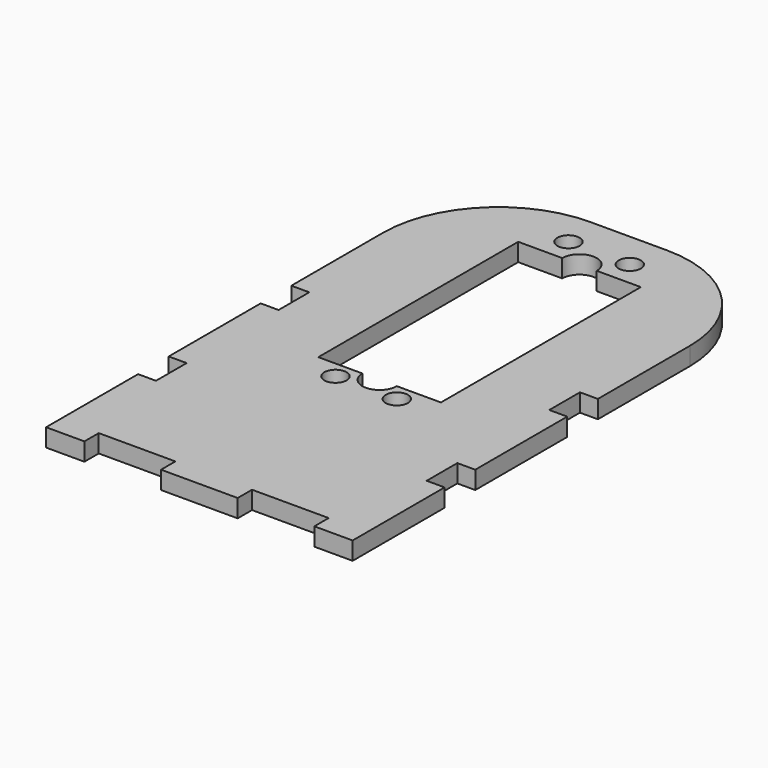
from build123d import *

# Parameters (mm, degrees)
F0_W      = 50.8
F0_H      = 88.9
F1_DEPTH  = 2.9718
F2_W      = 20.32
F2_H      = 41.402
F3_DEPTH  = 25.4
F4_W      = 12.7
F4_H      = 2.9718
F5_DEPTH  = 25.4
F6_W      = 2.9718
F6_H      = 6.35
F7_DEPTH  = 25.4
F8_R      = 1.8415
F9_DEPTH  = 25.4
F11_DEPTH = 25.4
F12_R     = 19.05


with BuildPart() as f1:
    # F0 (on Top) → F1 (new body)
    with BuildSketch(Plane.XY):
        Rectangle(F0_W, F0_H)
    extrude(amount=F1_DEPTH)

    # F2 (on face) → F3 (cut)
    with BuildSketch(Plane.XY.offset(2.9718)):
        with Locations((0, 13.589)):
            Rectangle(F2_W, F2_H)
    extrude(amount=-F3_DEPTH, mode=Mode.SUBTRACT)

    # F4 (on face) → F5 (cut)
    with BuildSketch(Plane.XY.offset(2.9718)):
        with Locations((-12.7, -42.9641)):
            Rectangle(F4_W, F4_H)
        with Locations((12.7, -42.9641)):
            Rectangle(F4_W, F4_H)
    extrude(amount=-F5_DEPTH, mode=Mode.SUBTRACT)

    # F6 (on face) → F7 (cut)
    with BuildSketch(Plane.XY.offset(2.9718)):
        with Locations((23.9141, 3.175)):
            Rectangle(F6_W, F6_H)
        with Locations((-23.9141, 3.175)):
            Rectangle(F6_W, F6_H)
        with Locations((-23.9141, -22.225)):
            Rectangle(F6_W, F6_H)
        with Locations((23.9141, -22.225)):
            Rectangle(F6_W, F6_H)
    extrude(amount=-F7_DEPTH, mode=Mode.SUBTRACT)

    # F8 (on face) → F9 (cut)
    with BuildSketch(Plane.XY.offset(2.9718)):
        with Locations((-5.08, 38.354)):
            Circle(F8_R)
        with Locations((5.08, 38.354)):
            Circle(F8_R)
        with Locations((-5.08, -9.906)):
            Circle(F8_R)
        with Locations((5.08, -9.906)):
            Circle(F8_R)
    extrude(amount=-F9_DEPTH, mode=Mode.SUBTRACT)

    # F10 (on face) → F11 (cut)
    with BuildSketch(Plane.XY.offset(2.9718)):
        with BuildLine():
            ThreePointArc((2.8575, 34.29), (0, 37.1475), (-2.8575, 34.29))
            Line((-2.8575, 34.29), (2.8575, 34.29))
        make_face()
        with BuildLine():
            ThreePointArc((-2.8575, -7.112), (0, -9.9695), (2.8575, -7.112))
            Line((2.8575, -7.112), (-2.8575, -7.112))
        make_face()
    extrude(amount=-F11_DEPTH, mode=Mode.SUBTRACT)

    # F12
    f12_edges = [f1.edges().sort_by_distance(p)[0] for p in [
        (25.4, 44.45, 1.4859),
        (-25.4, 44.45, 1.4859),
    ]]
    fillet(f12_edges, radius=F12_R)


solid = f1.part
